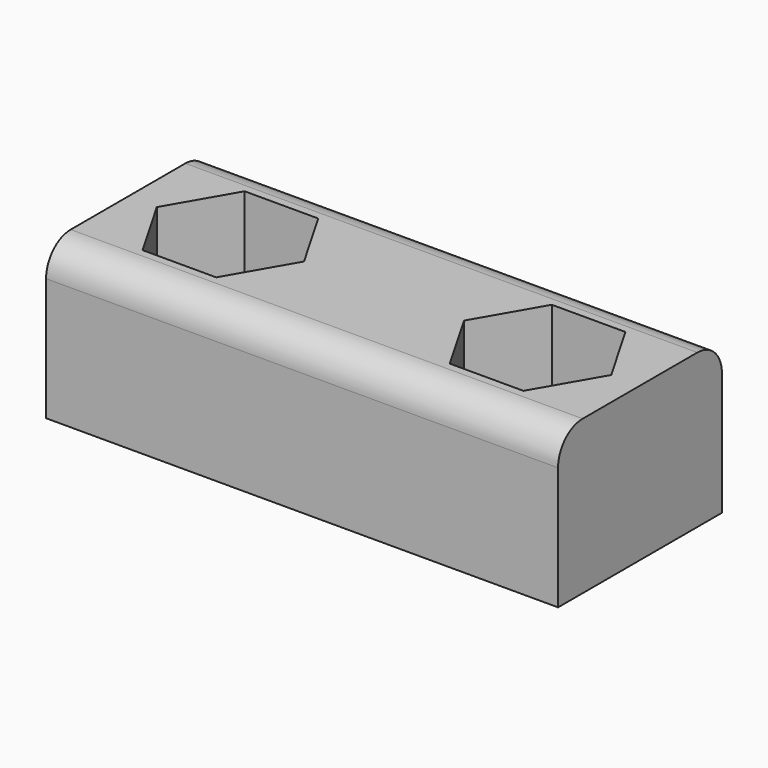
from build123d import *

# Parameters (mm, degrees)
PAD_DEPTH       = 50
SKETCH001_R     = 4
POCKET_DEPTH    = 15.001
POCKET001_DEPTH = 7


with BuildPart() as part:
    # Sketch → Pad (new body)
    with BuildSketch(Plane.YZ):
        with BuildLine():
            Line((0, 0), (20, 0))
            Line((20, 0), (20, 12))
            ThreePointArc((20, 12), (19.12132, 14.12132), (17, 15))
            Line((3, 15), (17, 15))
            ThreePointArc((3, 15), (0.87868, 14.12132), (0, 12))
            Line((0, 0), (0, 12))
        make_face()
    extrude(amount=PAD_DEPTH)

    # Sketch001 → Pocket (cut, through all)
    with BuildSketch(Plane(origin=(0, 0, 15), x_dir=(0, -1, 0), z_dir=(0, 0, 1))):
        with Locations((-10, 40)):
            Circle(SKETCH001_R)
        with Locations((-10, 10)):
            Circle(SKETCH001_R)
    extrude(amount=-POCKET_DEPTH, mode=Mode.SUBTRACT)

    # Sketch002 → Pocket001 (cut)
    with BuildSketch(Plane(origin=(0, 0, 15), x_dir=(0, -1, 0), z_dir=(0, 0, 1))):
        Polygon((-16.226723, 36.405), (-10, 32.81), (-3.773277, 36.405), (-3.773277, 43.595), (-10, 47.19), (-16.226723, 43.595), align=None)
        Polygon((-16.226723, 6.405), (-10, 2.81), (-3.773277, 6.405), (-3.773277, 13.595), (-10, 17.19), (-16.226723, 13.595), align=None)
    extrude(amount=-POCKET001_DEPTH, mode=Mode.SUBTRACT)


solid = part.part
